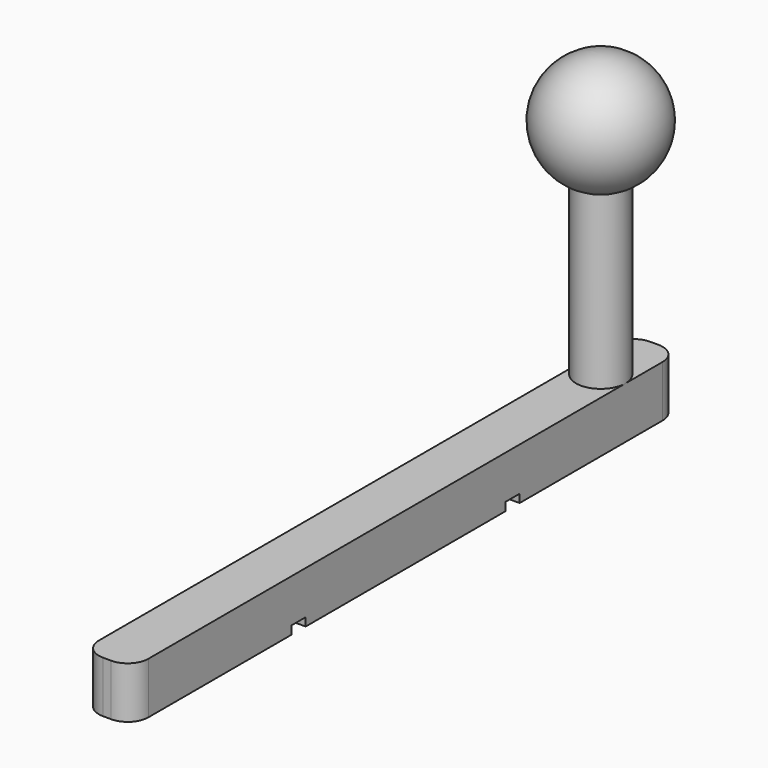
from build123d import *

# Parameters (mm, degrees)
F1_DEPTH = 7.5
F2_W     = 7.2
F2_H     = 2.6
F3_DEPTH = 1.2
F4_R     = 3.6
F5_DEPTH = 25


with BuildPart() as f1:
    # F0 (on Top) → F1 (new body)
    with BuildSketch(Plane.XY):
        with BuildLine():
            ThreePointArc((3.6, 46.75), (2.72132, 48.87132), (0.6, 49.75))
            Line((0.6, 49.75), (-0.6, 49.75))
            ThreePointArc((-0.6, 49.75), (-2.72132, 48.87132), (-3.6, 46.75))
            Line((-3.6, 46.75), (-3.6, -46.75))
            ThreePointArc((-3.6, -46.75), (-2.72132, -48.87132), (-0.6, -49.75))
            Line((-0.6, -49.75), (0.6, -49.75))
            ThreePointArc((0.6, -49.75), (2.72132, -48.87132), (3.6, -46.75))
            Line((3.6, -46.75), (3.6, 46.75))
        make_face()
    extrude(amount=F1_DEPTH)

    # F2 (on face) → F3 (cut)
    with BuildSketch(Plane(origin=(0, 0, 0), x_dir=(1, 0, 0), z_dir=(0, 0, -1))):
        with Locations((0, 19.45)):
            Rectangle(F2_W, F2_H)
        with Locations((0, -19.45)):
            Rectangle(F2_W, F2_H)
    extrude(amount=-F3_DEPTH, mode=Mode.SUBTRACT)

    # F4 (on face) → F5 (join)
    with BuildSketch(Plane.XY.offset(7.5)):
        with Locations((0, 40)):
            Circle(F4_R)
    extrude(amount=F5_DEPTH)

    # F7 (on offset) → F8 (revolve)
    with BuildSketch(Plane.XZ.offset(-40)):
        with BuildLine():
            Line((0, 31.55), (0, 48.45))
            ThreePointArc((0, 48.45), (-8.45, 40), (0, 31.55))
        make_face()
    revolve(axis=Axis((0, 40, 40), (0, 0, 1)))


solid = f1.part
